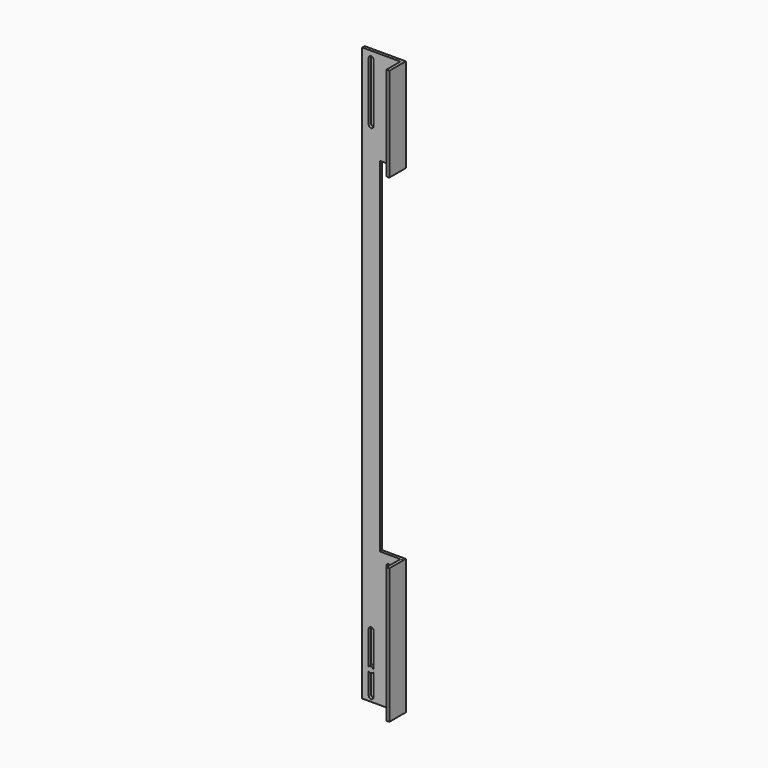
from build123d import *

# Parameters (mm, degrees)
F1_DEPTH = 5
F3_W     = 5
F3_H     = 229.9418896437
F3_H_2   = 160
F4_DEPTH = 35
F6_R     = 5
F7_DEPTH = 8


with BuildPart() as f1:
    # F0 (on Front) → F1 (new body)
    with BuildSketch(Plane.XZ):
        Polygon((-70, 0), (0, 0), (0, 230), (-40, 230), (-40, 815), (0, 815), (0, 975), (-70, 975), align=None)
        with BuildLine():
            ThreePointArc((-59, 108), (-55, 112), (-51, 108))
            Line((-51, 108), (-51, 8))
            ThreePointArc((-51, 8), (-55, 4), (-59, 8))
            Line((-59, 8), (-59, 108))
        make_face(mode=Mode.SUBTRACT)
        with BuildLine():
            ThreePointArc((-29, 212), (-25, 216), (-21, 212))
            Line((-21, 212), (-21, 8))
            ThreePointArc((-21, 8), (-25, 4), (-29, 8))
            Line((-29, 8), (-29, 212))
        make_face(mode=Mode.SUBTRACT)
        with BuildLine():
            ThreePointArc((-59, 963), (-55, 967), (-51, 963))
            Line((-51, 963), (-51, 863))
            ThreePointArc((-51, 863), (-55, 859), (-59, 863))
            Line((-59, 863), (-59, 963))
        make_face(mode=Mode.SUBTRACT)
    extrude(amount=F1_DEPTH)

    # F3 (on offset) → F4 (join)
    with BuildSketch(Plane(origin=(0, 0, 0), x_dir=(-1, 0, 0), z_dir=(0, 1, 0))):
        with Locations((2.5, 114.9709448218)):
            Rectangle(F3_W, F3_H)
        with Locations((2.5, 894.9537706375)):
            Rectangle(F3_W, F3_H_2)
    extrude(amount=-F4_DEPTH)

    # F6 (on offset) → F7 (join)
    with BuildSketch(Plane.XZ.offset(5)):
        with Locations((-55.5474348366, 48)):
            Circle(F6_R)
        with Locations((-24.9165232928, 183)):
            Circle(F6_R)
        with Locations((-25.0249505043, 196)):
            Circle(F6_R)
    extrude(amount=-F7_DEPTH)


solid = f1.part
